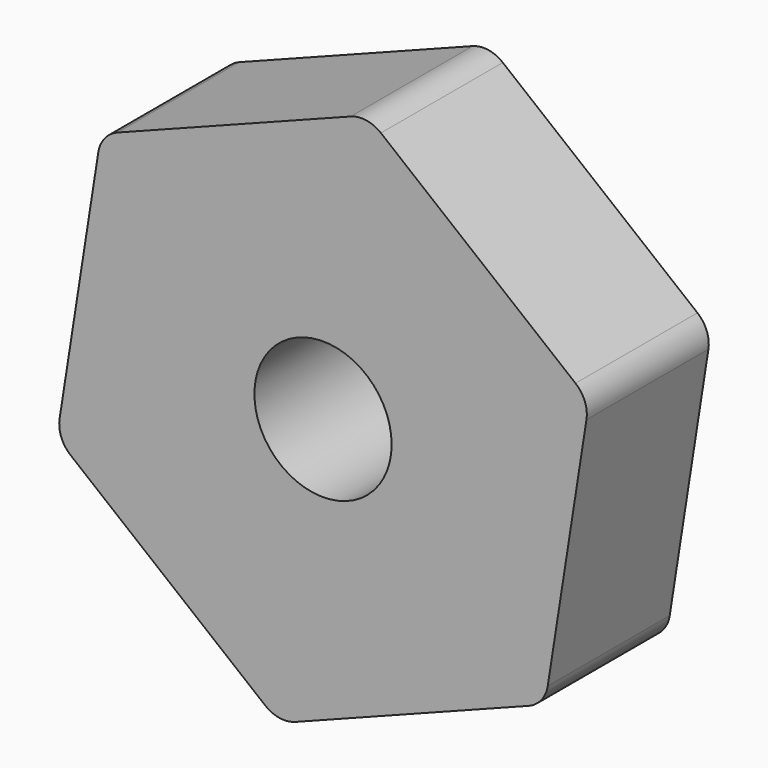
from build123d import *

# Parameters (mm, degrees)
F0_R     = 4.5
F1_DEPTH = 10
F2_R     = 2


with BuildPart() as f1:
    # F0 (on Front) → F1 (new body)
    with BuildSketch(Plane.XZ):
        Polygon((14.562795, -11.751718), (17.458684, 6.735892), (2.895889, 18.48761), (-14.562795, 11.751718), (-17.458684, -6.735892), (-2.895889, -18.48761), align=None)
        Circle(F0_R, mode=Mode.SUBTRACT)
    extrude(amount=F1_DEPTH)

    # F2
    f2_edges = [f1.edges().sort_by_distance(p)[0] for p in [
        (2.895889, -5, 18.48761),
        (17.458684, -5, 6.735892),
        (14.562795, -5, -11.751718),
        (-2.895889, -5, -18.48761),
        (-17.458684, -5, -6.735892),
        (-14.562795, -5, 11.751718),
    ]]
    fillet(f2_edges, radius=F2_R)


solid = f1.part
